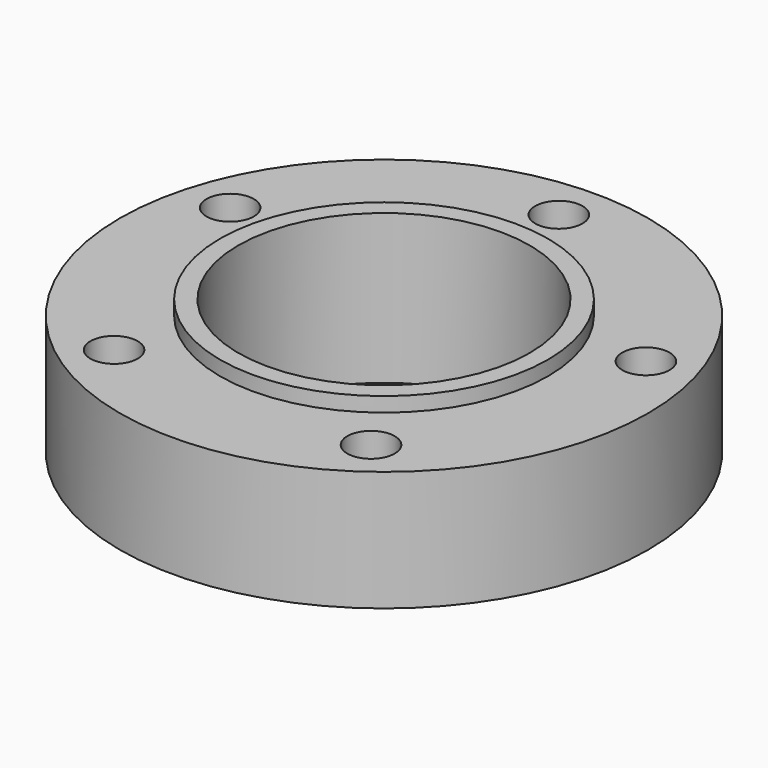
from build123d import *

# Parameters (mm, degrees)
F2_R     = 6.5
F3_DEPTH = 33


with BuildPart() as f1:
    # F0 (on Front) → F1 (revolve)
    with BuildSketch(Plane.XZ):
        Polygon((40, 41), (40, 0), (45, 0), (45, 4), (72.5, 4), (72.5, 37), (45, 37), (45, 41), align=None)
    revolve(axis=Axis((0, 0, 41.075442), (0, 0, 1)))

    # F2 (on face) → F3 (cut, through all)
    with BuildSketch(Plane.XY.offset(37)):
        with Locations((0, 60)):
            Circle(F2_R)
        with Locations((-57.063391, 18.54102)):
            Circle(F2_R)
        with Locations((-35.267115, -48.54102)):
            Circle(F2_R)
        with Locations((35.267115, -48.54102)):
            Circle(F2_R)
        with Locations((57.063391, 18.54102)):
            Circle(F2_R)
    extrude(amount=-F3_DEPTH, mode=Mode.SUBTRACT)


solid = f1.part
